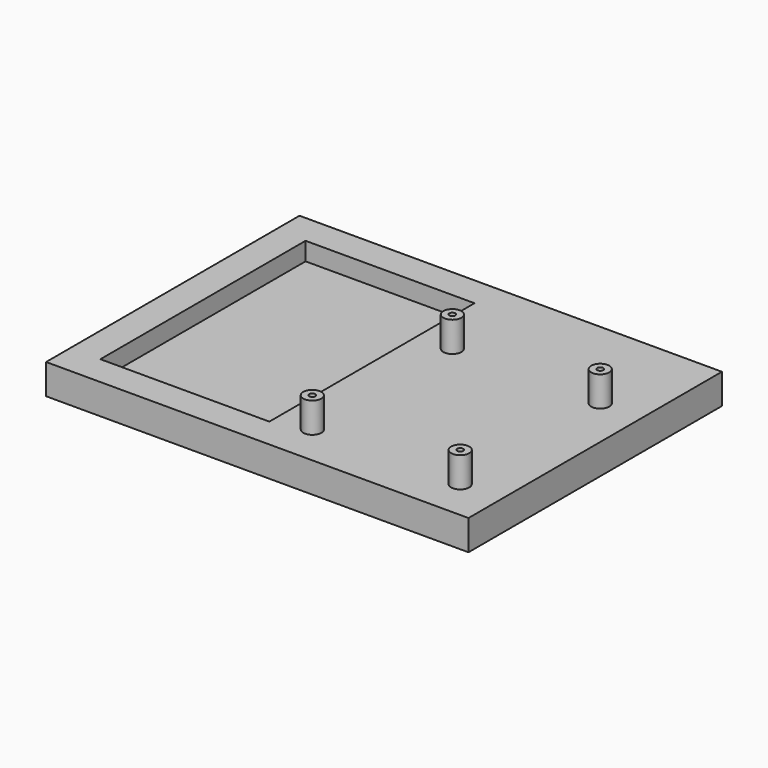
from build123d import *

# Parameters (mm, degrees)
F0_W     = 140
F0_H     = 105
F1_DEPTH = 10
F2_R     = 3
F2_R_2   = 1
F3_DEPTH = 10
F4_W     = 56
F4_H     = 85
F5_DEPTH = 6


with BuildPart() as f1:
    # F0 (on Top) → F1 (new body)
    with BuildSketch(Plane.XY):
        with Locations((70, 52.5)):
            Rectangle(F0_W, F0_H)
    extrude(amount=-F1_DEPTH)

    # F2 (on Top) → F3 (join)
    with BuildSketch(Plane.XY):
        with Locations((77.444687, 71.503997)):
            Circle(F2_R)
        with Locations((77.444687, 71.503997)):
            Circle(F2_R_2, mode=Mode.SUBTRACT)
        with Locations((126.459315, 71.503997)):
            Circle(F2_R)
        with Locations((126.459315, 71.503997)):
            Circle(F2_R_2, mode=Mode.SUBTRACT)
        with Locations((126.459315, 13.496778)):
            Circle(F2_R)
        with Locations((126.459315, 13.496778)):
            Circle(F2_R_2, mode=Mode.SUBTRACT)
        with Locations((77.444687, 13.496778)):
            Circle(F2_R)
        with Locations((77.444687, 13.496778)):
            Circle(F2_R_2, mode=Mode.SUBTRACT)
    extrude(amount=F3_DEPTH)

    # F4 (on face) → F5 (cut)
    with BuildSketch(Plane.XY):
        with Locations((38, 52.5)):
            Rectangle(F4_W, F4_H)
    extrude(amount=-F5_DEPTH, mode=Mode.SUBTRACT)


solid = f1.part
